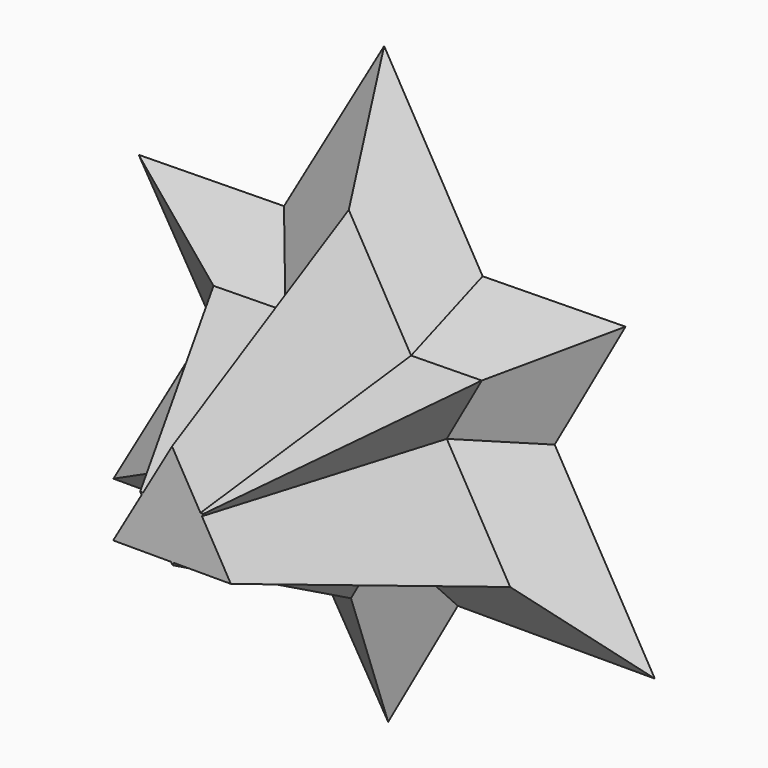
from build123d import *

# Parameters (mm, degrees)
F2_DEPTH      = 127
F2_TAPER      = 15
F2_DEPTH_BACK = 25.4
F2_TAPER_BACK = -55


with BuildPart() as f2:
    # F1 (on Front) → F2 (new body, two sides)
    with BuildSketch(Plane.XZ) as f2_sk:
        Polygon((-19.8853383325, -53.5598434508), (1.2774319094, -89.0296842607), (21.0829494852, -53.5598434508), align=None)
        Polygon((-92.7683701022, -53.5598434508), (-19.8853383325, -53.5598434508), (-56.9256597937, 8.5215518845), align=None)
        Polygon((-56.9256597937, 8.5215518845), (-19.8853383325, -53.5598434508), (21.0829494852, -53.5598434508), (56.3268542174, 9.5587135666), (35.8427103085, 45.0382915663), (-36.4415158848, 44.0011298842), align=None)
        Polygon((56.3268542174, 9.5587135666), (21.0829494852, -53.5598434508), (92.7683701022, -53.5598434508), align=None)
        Polygon((-77.7406842154, 43.4085536452), (-56.9256597937, 8.5215518845), (-36.4415158848, 44.0011298842), align=None)
        Polygon((35.8427103085, 45.0382915663), (56.3268542174, 9.5587135666), (76.463252306, 45.6211306155), align=None)
        Polygon((0, 107.1196869016), (-36.4415158848, 44.0011298842), (35.8427103085, 45.0382915663), align=None)
    extrude(amount=F2_DEPTH, taper=F2_TAPER)
    extrude(f2_sk.sketch, amount=-F2_DEPTH_BACK, taper=F2_TAPER_BACK)


solid = f2.part
